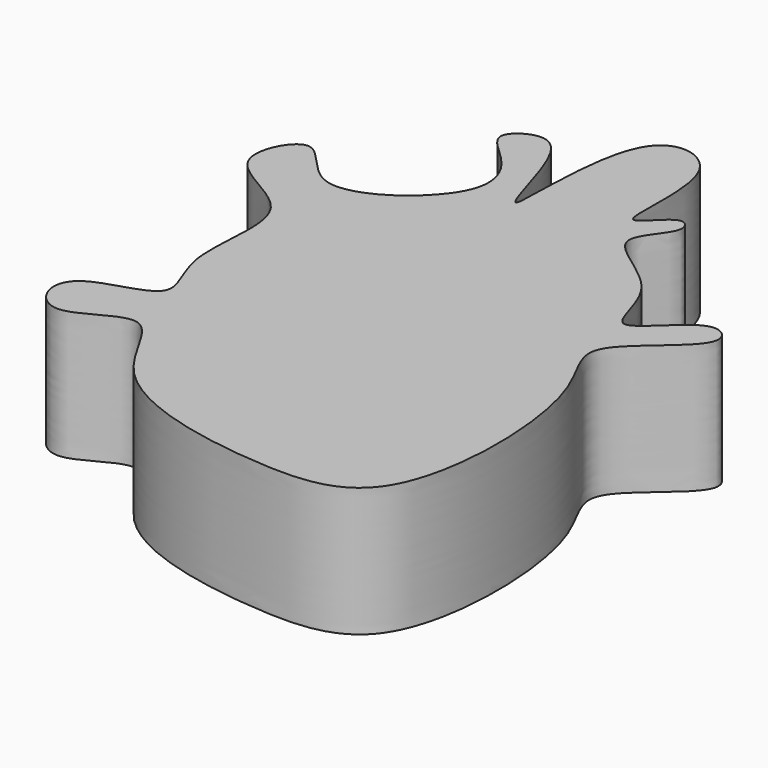
from build123d import *

# Parameters (mm, degrees)
F1_DEPTH = 25.4
F2_R     = 5.08
F3_DEPTH = 12.7


with BuildPart() as f1:
    # F0 (on Top) → F1 (new body)
    with BuildSketch(Plane.XY):
        with BuildLine():
            add(Edge.make_bspline(
                [(-26.0172374547, 49.2369271815), (-26.3112042244, 47.2507774282), (-19.6718079718, 43.0403031989), (-14.595650886, 31.0244179919), (-38.4629063506, 13.2809925713), (-46.6704330749, 33.8040552545), (-56.2932676336, 15.6709441247), (-32.5752653409, 10.8865666218), (-40.2776457157, -12.1071135447), (-29.5202361556, -25.3230959304), (-47.7272968057, -27.0474642589), (-49.3174705755, -34.9810325559), (-42.6563303869, -41.124570281), (-28.9357372319, -28.3403441079), (-23.4134721581, -53.3985276262), (11.6995484749, -60.3193607024), (39.1948582743, -58.6782172157), (38.2988801705, -9.5343163179), (24.1402033044, 3.1240046674), (46.1783056933, 15.3131319137), (37.7850353469, 22.7963148519), (25.8146301471, 5.581138061), (25.6936106625, 25.4981184631), (5.5167367118, 32.6700886722), (16.648611969, 41.3116498025), (12.6800719464, 46.3272775472), (3.9978247152, 33.136401249), (10.0523409238, 61.9197586272), (-11.9998032928, 66.8002181798), (-8.4390435652, 22.2126971535), (-14.0869682775, 45.2222020199), (-19.1951507311, 55.0822392441), (-25.7593776273, 50.9791248897), (-26.0172374547, 49.2369271815)],
                knots=[0, 0, 0, 0, 0.025139969, 0.0544917694, 0.0954963805, 0.1267020616, 0.1543567056, 0.1904821563, 0.2302946941, 0.260081184, 0.2916651873, 0.313551694, 0.3358718056, 0.3666085724, 0.4032398012, 0.454967384, 0.4961692453, 0.5531585859, 0.5867686291, 0.6238969616, 0.6430936715, 0.6748545443, 0.7051757648, 0.7408147034, 0.7668422922, 0.7820092051, 0.8052685443, 0.8434807254, 0.8731244373, 0.9194429656, 0.9490461442, 0.9779478882, 1, 1, 1, 1], degree=3))
        make_face()
    extrude(amount=F1_DEPTH)

    # F2 (on Top) → F3 (cut)
    with BuildSketch(Plane.XY):
        with Locations((-21.5378517817, 9.0405797056)):
            Circle(F2_R)
        with Locations((19.6765562984, -9.3064791868)):
            Circle(F2_R)
        with BuildLine():
            add(Edge.make_bspline(
                [(-25.1779723912, -18.7436006963), (-18.4620285535, -12.8678690002), (46.4404262758, -24.7795452807), (4.3670392234, -42.6220583476), (-10.3554212649, -41.4271598692), (-29.6330173279, -22.6412879573), (-25.1779723912, -18.7436006963)],
                knots=[0, 0, 0, 0, 0.3403763676, 0.5610496587, 0.7742101409, 1, 1, 1, 1], degree=3))
        make_face()
    extrude(amount=F3_DEPTH, mode=Mode.SUBTRACT)


solid = f1.part
